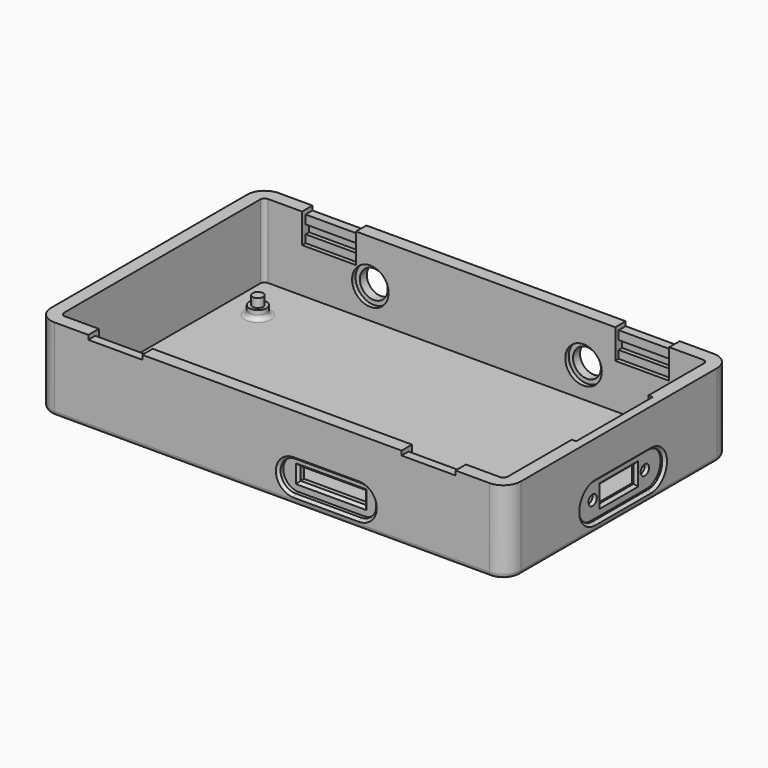
from build123d import *

# Parameters (mm, degrees)
SKETCH_W        = 108
SKETCH_H        = 64.4
PAD_DEPTH       = 19
SKETCH001_W     = 102
SKETCH001_H     = 58.4
POCKET_DEPTH    = 17
SKETCH002_R     = 2
PAD001_DEPTH    = 2
SKETCH003_R     = 1.2
PAD002_DEPTH    = 4
SKETCH004_R     = 3.2
SKETCH004_W     = 12.4
SKETCH004_H     = 1
POCKET001_DEPTH = 3
SKETCH005_W     = 12.4
SKETCH005_H     = 1
SKETCH005_W_2   = 15
SKETCH005_H_2   = 3
POCKET002_DEPTH = 3
SKETCH006_R     = 1.2
SKETCH006_W     = 10
SKETCH006_H     = 4
POCKET003_DEPTH = 3
SKETCH007_W     = 12.4
SKETCH007_H     = 2
POCKET004_DEPTH = 2
SKETCH008_W     = 12.4
SKETCH008_H     = 2
POCKET005_DEPTH = 2
SKETCH009_W     = 12.4
SKETCH009_H     = 1
POCKET006_DEPTH = 6.8
POCKET007_DEPTH = 1.4
POCKET008_DEPTH = 1
SKETCH012_R     = 4.2
POCKET009_DEPTH = 1
SKETCH013_W     = 22
SKETCH013_H     = 17
POCKET010_DEPTH = 1
FILLET_R        = 4
FILLET001_R     = 1
CHAMFER_SIZE    = 0.6
FILLET002_R     = 1
FILLET003_R     = 1


with BuildPart() as part:
    # Sketch → Pad (new body)
    with BuildSketch(Plane.XY):
        Rectangle(SKETCH_W, SKETCH_H)
    extrude(amount=PAD_DEPTH)

    # Sketch001 (on Face6 of Pad) → Pocket (cut)
    with BuildSketch(Plane.XY.offset(19)):
        Rectangle(SKETCH001_W, SKETCH001_H)
    extrude(amount=-POCKET_DEPTH, mode=Mode.SUBTRACT)

    # Sketch002 (on Face11 of Pocket) → Pad001 (join)
    with BuildSketch(Plane.XY.offset(2)):
        with Locations((-43.71, 18.4)):
            Circle(SKETCH002_R)
        with Locations((45.75, 18.4)):
            Circle(SKETCH002_R)
        with Locations((45.75, -18.4)):
            Circle(SKETCH002_R)
        with Locations((-43.71, -18.4)):
            Circle(SKETCH002_R)
    extrude(amount=PAD001_DEPTH)

    # Sketch003 (on Face11 of Pad001) → Pad002 (join)
    with BuildSketch(Plane.XY.offset(2)):
        with Locations((-43.71, 18.4)):
            Circle(SKETCH003_R)
        with Locations((45.75, 18.4)):
            Circle(SKETCH003_R)
        with Locations((45.75, -18.4)):
            Circle(SKETCH003_R)
        with Locations((-43.71, -18.4)):
            Circle(SKETCH003_R)
    extrude(amount=PAD002_DEPTH)

    # Sketch004 (on Face1 of Pad002) → Pocket001 (cut)
    with BuildSketch(Plane(origin=(0, 32.2, 0), x_dir=(-1, 0, 0), z_dir=(0, 1, 0))):
        with Locations((-22.5, 9)):
            Circle(SKETCH004_R)
        with Locations((26.5, 9)):
            Circle(SKETCH004_R)
        with Locations((-36, 18.5)):
            Rectangle(SKETCH004_W, SKETCH004_H)
        with Locations((36, 18.5)):
            Rectangle(SKETCH004_W, SKETCH004_H)
    extrude(amount=-POCKET001_DEPTH, mode=Mode.SUBTRACT)

    # Sketch005 (on Face15 of Pocket001) → Pocket002 (cut)
    with BuildSketch(Plane.XZ.offset(32.2)):
        with Locations((-36, 18.5)):
            Rectangle(SKETCH005_W, SKETCH005_H)
        with Locations((36, 18.5)):
            Rectangle(SKETCH005_W, SKETCH005_H)
        with Locations((12.5, 5.5)):
            Rectangle(SKETCH005_W_2, SKETCH005_H_2)
    extrude(amount=-POCKET002_DEPTH, mode=Mode.SUBTRACT)

    # Sketch006 (on Face3 of Pocket002) → Pocket003 (cut)
    with BuildSketch(Plane.YZ.offset(54)):
        with Locations((-6.3, 6)):
            Circle(SKETCH006_R)
        with Locations((8.7, 6)):
            Circle(SKETCH006_R)
        with Locations((1.2, 6)):
            Rectangle(SKETCH006_W, SKETCH006_H)
    extrude(amount=-POCKET003_DEPTH, mode=Mode.SUBTRACT)

    # Sketch007 (on Face23 of Pocket003) → Pocket004 (cut)
    with BuildSketch(Plane.XZ.offset(-29.2)):
        with Locations((-36, 15)):
            Rectangle(SKETCH007_W, SKETCH007_H)
        with Locations((36, 15)):
            Rectangle(SKETCH007_W, SKETCH007_H)
    extrude(amount=-POCKET004_DEPTH, mode=Mode.SUBTRACT)

    # Sketch008 (on Face25 of Pocket004) → Pocket005 (cut)
    with BuildSketch(Plane(origin=(0, -29.2, 0), x_dir=(-1, 0, 0), z_dir=(0, 1, 0))):
        with Locations((-36, 15)):
            Rectangle(SKETCH008_W, SKETCH008_H)
        with Locations((36, 15)):
            Rectangle(SKETCH008_W, SKETCH008_H)
    extrude(amount=-POCKET005_DEPTH, mode=Mode.SUBTRACT)

    # Sketch009 (on Face31 of Pocket005) → Pocket006 (cut)
    with BuildSketch(Plane.XY.offset(19)):
        with Locations((-36, 29.7)):
            Rectangle(SKETCH009_W, SKETCH009_H)
        with Locations((36, 29.7)):
            Rectangle(SKETCH009_W, SKETCH009_H)
        with Locations((36, -29.7)):
            Rectangle(SKETCH009_W, SKETCH009_H)
        with Locations((-36, -29.7)):
            Rectangle(SKETCH009_W, SKETCH009_H)
    extrude(amount=-POCKET006_DEPTH, mode=Mode.SUBTRACT)

    # Sketch010 (on Face16 of Pocket006) → Pocket007 (cut)
    with BuildSketch(Plane.XZ.offset(32.2)):
        with BuildLine():
            ThreePointArc((5, 9), (1.5, 5.5), (5, 2))
            Line((5, 2), (20, 2))
            ThreePointArc((20, 2), (23.5, 5.5), (20, 9))
            Line((5, 9), (20, 9))
        make_face()
    extrude(amount=-POCKET007_DEPTH, mode=Mode.SUBTRACT)

    # Sketch011 (on Face3 of Pocket007) → Pocket008 (cut)
    with BuildSketch(Plane.YZ.offset(54)):
        with BuildLine():
            ThreePointArc((-6.8, 10), (-10.8, 6), (-6.8, 2))
            Line((-6.8, 2), (9.2, 2))
            ThreePointArc((9.2, 2), (13.2, 6), (9.2, 10))
            Line((-6.8, 10), (9.2, 10))
        make_face()
    extrude(amount=-POCKET008_DEPTH, mode=Mode.SUBTRACT)

    # Sketch012 → Pocket009 (cut)
    with BuildSketch(Plane.XZ.offset(-29.2)):
        with Locations((-26.5, 9)):
            Circle(SKETCH012_R)
        with Locations((22.5, 9)):
            Circle(SKETCH012_R)
    extrude(amount=-POCKET009_DEPTH, mode=Mode.SUBTRACT)

    # Sketch013 (on Face25 of Pocket009) → Pocket010 (cut)
    with BuildSketch(Plane(origin=(51, 0, 0), x_dir=(0, -1, 0), z_dir=(-1, 0, 0))):
        with Locations((-1.2, 10.5)):
            Rectangle(SKETCH013_W, SKETCH013_H)
    extrude(amount=-POCKET010_DEPTH, mode=Mode.SUBTRACT)

    # Fillet
    fillet_edges = [part.edges().sort_by_distance(p)[0] for p in [
        (54, 32.2, 9.5),
        (-54, 32.2, 9.5),
        (-54, -32.2, 9.5),
        (54, -32.2, 9.5),
    ]]
    fillet(fillet_edges, radius=FILLET_R)

    # Fillet001
    fillet001_edges = [part.edges().sort_by_distance(p)[0] for p in [
        (-51, 29.2, 10.5),
        (-51, -29.2, 10.5),
        (51, -29.2, 10.5),
        (51, 29.2, 10.5),
    ]]
    fillet(fillet001_edges, radius=FILLET001_R)

    # Chamfer
    chamfer_edges = [part.edges().sort_by_distance(p)[0] for p in [
        (12.5, -32.2, 9),
        (54, 1.2, 10),
        (12.5, -30.8, 7),
        (53, -3.8, 6),
        (53, 1.2, 8),
        (5, -30.8, 5.5),
        (20, -30.8, 5.5),
        (12.5, -30.8, 4),
        (53, 6.2, 6),
        (53, 1.2, 4),
    ]]
    chamfer(chamfer_edges, length=CHAMFER_SIZE)

    # Fillet002
    fillet002_edges = [part.edges().sort_by_distance(p)[0] for p in [
        (0, -32.2, 0),
    ]]
    fillet(fillet002_edges, radius=FILLET002_R)

    # Fillet003
    fillet003_edges = [part.edges().sort_by_distance(p)[0] for p in [
        (43.75, 18.4, 2),
        (43.75, -18.4, 2),
        (-45.71, -18.4, 2),
        (-45.71, 18.4, 2),
    ]]
    fillet(fillet003_edges, radius=FILLET003_R)


solid = part.part
